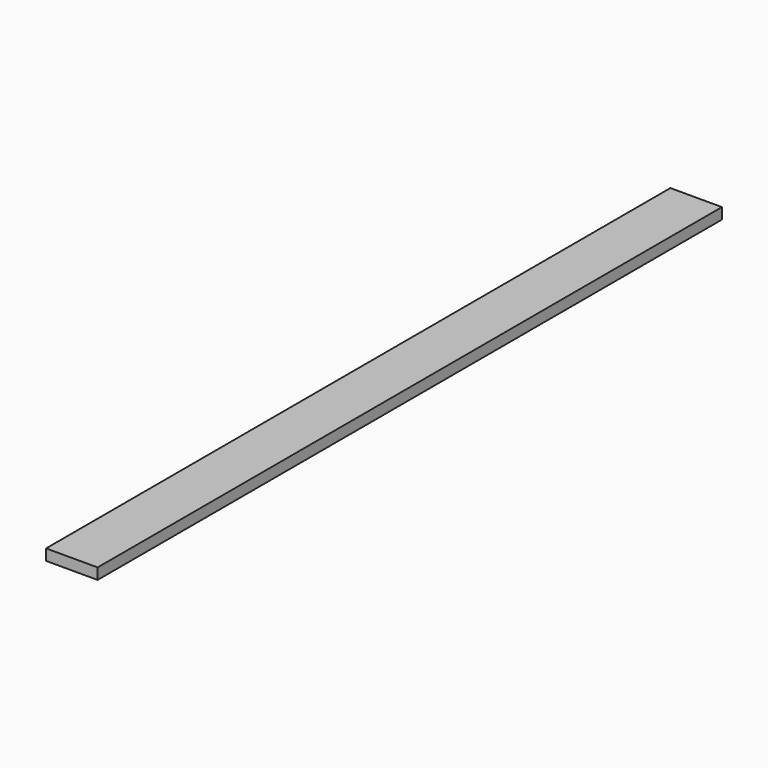
from build123d import *

# Parameters (mm, degrees)
SKETCH_W  = 88.9
SKETCH_H  = 19.05
PAD_DEPTH = 1346.2


with BuildPart() as part:
    # Sketch → Pad (new body)
    with BuildSketch(Plane.XZ):
        with Locations((-44.45, 9.525)):
            Rectangle(SKETCH_W, SKETCH_H)
    extrude(amount=PAD_DEPTH)


solid = part.part
